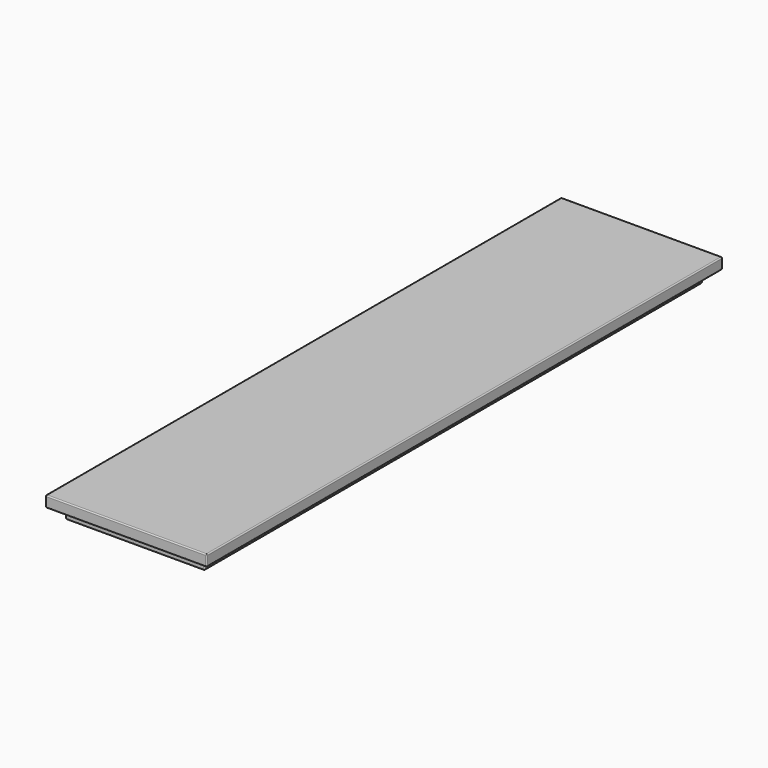
from build123d import *

# Parameters (mm, degrees)
F0_W     = 145
F0_H     = 580
F1_DEPTH = 10
F2_W     = 125
F2_H     = 560
F3_DEPTH = 10
F4_R     = 1


with BuildPart() as f1:
    # F0 (on Top) → F1 (new body)
    with BuildSketch(Plane.XY):
        with Locations((-112.119565, 4.486432)):
            Rectangle(F0_W, F0_H)
    extrude(amount=F1_DEPTH)

    # F2 (on face) → F3 (join)
    with BuildSketch(Plane(origin=(0, 0, 0), x_dir=(1, 0, 0), z_dir=(0, 0, -1))):
        with Locations((-112.119565, -4.486432)):
            Rectangle(F2_W, F2_H)
    extrude(amount=F3_DEPTH)

    # F4
    f4_edges = [f1.edges().sort_by_distance(p)[0] for p in [
        (-49.619565, 4.486432, -10),
        (-112.119565, -275.513568, -10),
        (-174.619565, 4.486432, -10),
        (-112.119565, 284.486432, -10),
        (-184.619565, 4.486432, 0),
        (-49.619565, -275.513568, -5),
        (-174.619565, -275.513568, -5),
        (-112.119565, -275.513568, 0),
        (-49.619565, 284.486432, -5),
        (-49.619565, 4.486432, 0),
        (-39.619565, -285.513568, 5),
        (-39.619565, 294.486432, 5),
        (-39.619565, 4.486432, 0),
        (-39.619565, 4.486432, 10),
        (-184.619565, -285.513568, 5),
        (-112.119565, -285.513568, 0),
        (-112.119565, -285.513568, 10),
        (-184.619565, 294.486432, 5),
        (-184.619565, 4.486432, 10),
        (-112.119565, 294.486432, 0),
        (-112.119565, 294.486432, 10),
        (-174.619565, 284.486432, -5),
        (-112.119565, 284.486432, 0),
        (-174.619565, 4.486432, 0),
    ]]
    fillet(f4_edges, radius=F4_R)


solid = f1.part
